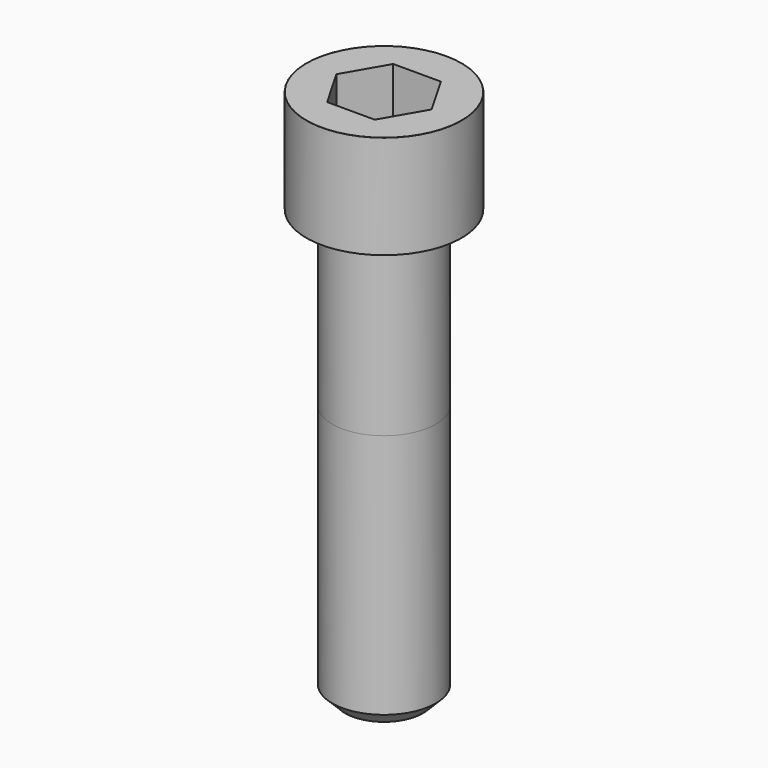
from build123d import *

# Parameters (mm, degrees)
POCKET_DEPTH = 19.15


with BuildPart() as part:
    # Sketch → Revolve (revolve)
    with BuildSketch(Plane.YZ):
        with BuildLine():
            Line((11.999, 0), (18, 0))
            Line((18, 0), (18, 23.97229))
            ThreePointArc((18, 23.97229), (17.991884, 23.991884), (17.97229, 24))
            Line((17.97229, 24), (0, 24))
            Line((0, -100), (0, 24))
            Line((9, -100), (0, -100))
            Line((12, -97), (9, -100))
            Line((12, -40), (12, -97))
            Line((11.999, 0), (12, -40))
        make_face()
    revolve(axis=Axis((0, 0, 0), (0, 0, 1)))

    # Sketch001 → Pocket (cut)
    with BuildSketch(Plane.XY.offset(24)):
        Polygon((11.056258, 0), (5.528129, 9.575), (-5.528129, 9.575), (-11.056258, 0), (-5.528129, -9.575), (5.528129, -9.575), align=None)
    extrude(amount=-POCKET_DEPTH, mode=Mode.SUBTRACT)


solid = part.part
